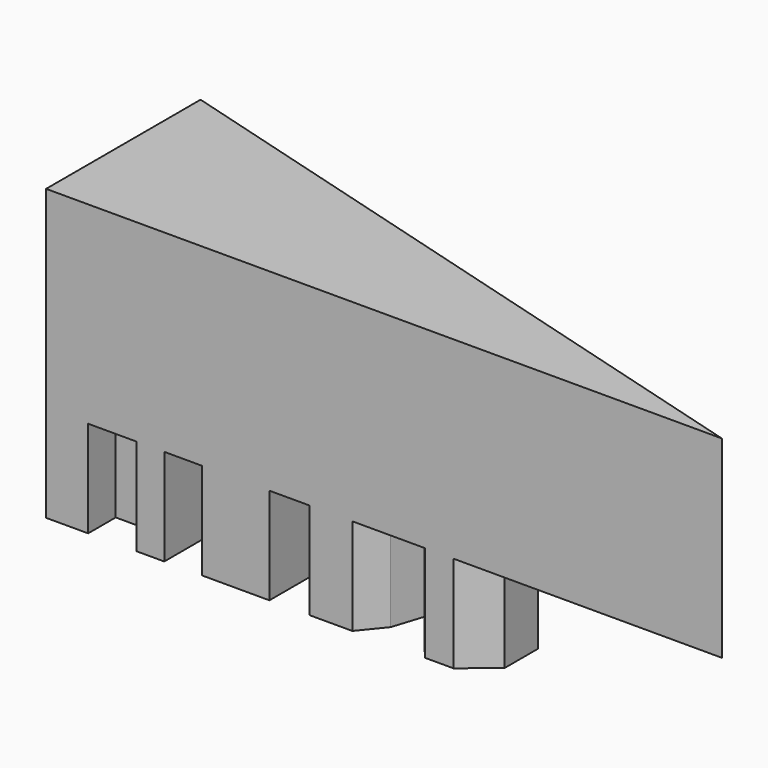
from build123d import *

# Parameters (mm, degrees)
F1_DEPTH = 50.8
F2_W     = 8.733455
F2_H     = 13.649156
F3_DEPTH = 76.2


with BuildPart() as f1:
    # F0 (on Top) → F1 (new body)
    with BuildSketch(Plane.XY):
        Polygon((0, 50.8), (0, 0), (177.8, 0), align=None)
    extrude(amount=F1_DEPTH)

    # F2 (on face) → F3 (join)
    with BuildSketch(Plane.XY.offset(50.8)):
        Polygon((11.064442, 34.938731), (11.064442, 47.638731), (0, 50.8), (0, 0), (11.064442, 0), (11.064442, 9.0678), (23.764442, 9.0678), (23.764442, 0), (31.091255, 0), (31.091255, 41.916784), (23.764442, 44.010159), (23.764442, 34.938731), align=None)
        Polygon((58.754327, 34.01305), (40.974327, 39.09305), (40.974327, 0), (58.754327, 0), align=None)
        with Locations((50.614247, 15.892378)):
            Rectangle(F2_W, F2_H, mode=Mode.SUBTRACT)
        Polygon((80.572039, 27.779417), (69.328356, 30.991898), (69.328356, 0), (80.572039, 0), (85.649624, 6.265562), (88.696182, 15.811432), align=None)
        Polygon((75.697549, 9.908289), (75.697549, 15.495949), (75.697549, 19.873505), (80.572039, 15.923239), align=None, mode=Mode.SUBTRACT)
        Polygon((115.295707, 17.639365), (99.104117, 22.484538), (94.17998, 17.639365), (94.17998, 9.908289), (94.17998, 6.67177), (99.663779, 0), (107.178614, 0), (115.295707, 6.67177), (115.295707, 15.608329), align=None)
        Polygon((102.304123, 9.908289), (102.304123, 12.764879), (102.304123, 15.608329), (108.600341, 15.608329), (108.600341, 9.908289), align=None, mode=Mode.SUBTRACT)
    extrude(amount=-F3_DEPTH)


solid = f1.part
